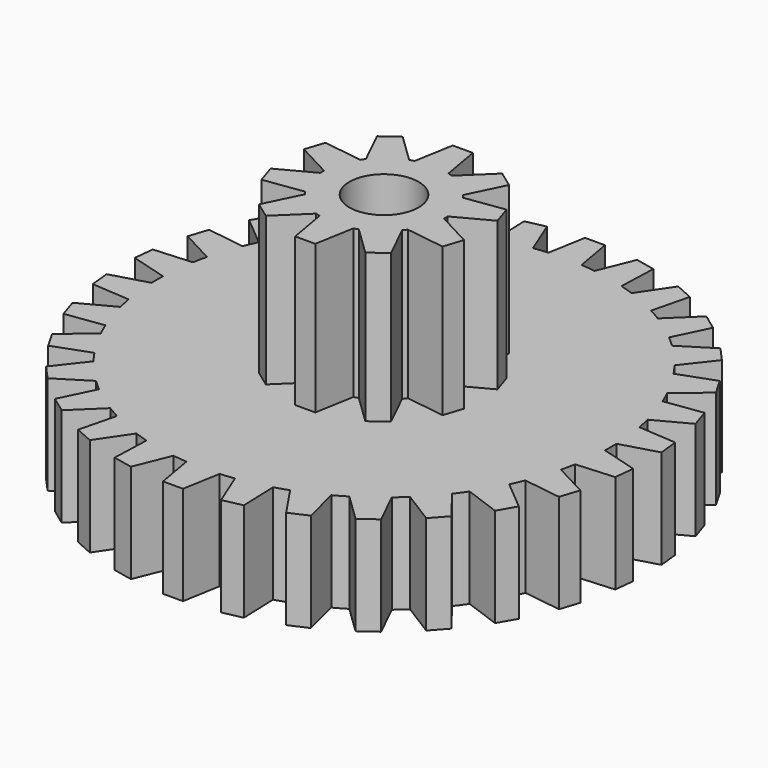
from build123d import *

# Parameters (mm, degrees)
F1_DEPTH = 3
F3_DEPTH = 4.5
F4_R     = 1.05
F5_DEPTH = 7.501


with BuildPart() as f1:
    # F0 (on Top) → F1 (new body)
    with BuildSketch(Plane.XY):
        with BuildLine():
            ThreePointArc((6.871599, -0.21621), (6.87415, -0.108118), (6.875, 0))
            ThreePointArc((6.875, 0), (6.87415, 0.108118), (6.871599, 0.21621))
            ThreePointArc((6.871599, 0.21621), (6.837338, 0.718633), (6.766391, 1.217201))
            ThreePointArc((6.766391, 1.217201), (6.724765, 1.429393), (6.676486, 1.640171))
            ThreePointArc((6.676486, 1.640171), (6.538514, 2.124492), (6.365459, 2.597414))
            ThreePointArc((6.365459, 2.597414), (6.280625, 2.796314), (6.189578, 2.992449))
            ThreePointArc((6.189578, 2.992449), (5.953925, 3.4375), (5.686326, 3.864107))
            ThreePointArc((5.686326, 3.864107), (5.561992, 4.041024), (5.432156, 4.213942))
            ThreePointArc((5.432156, 4.213942), (5.109121, 4.600273), (4.758673, 4.961921))
            ThreePointArc((4.758673, 4.961921), (4.600273, 5.109121), (4.437322, 5.251266))
            ThreePointArc((4.437322, 5.251266), (4.041024, 5.561992), (3.623043, 5.842875))
            ThreePointArc((3.623043, 5.842875), (3.4375, 5.953925), (3.248556, 6.059085))
            ThreePointArc((3.248556, 6.059085), (2.796314, 6.280625), (2.329069, 6.468467))
            ThreePointArc((2.329069, 6.468467), (2.124492, 6.538514), (1.917813, 6.602092))
            ThreePointArc((1.917813, 6.602092), (1.429393, 6.724765), (0.933303, 6.811356))
            ThreePointArc((0.933303, 6.811356), (0.718633, 6.837338), (0.503252, 6.856556))
            ThreePointArc((0.503252, 6.856556), (0, 6.875), (-0.503252, 6.856556))
            ThreePointArc((-0.503252, 6.856556), (-0.718633, 6.837338), (-0.933303, 6.811356))
            ThreePointArc((-0.933303, 6.811356), (-1.429393, 6.724765), (-1.917813, 6.602092))
            ThreePointArc((-1.917813, 6.602092), (-2.124492, 6.538514), (-2.329069, 6.468467))
            ThreePointArc((-2.329069, 6.468467), (-2.796314, 6.280625), (-3.248556, 6.059085))
            ThreePointArc((-3.248556, 6.059085), (-3.4375, 5.953925), (-3.623043, 5.842875))
            ThreePointArc((-3.623043, 5.842875), (-4.041024, 5.561992), (-4.437322, 5.251266))
            ThreePointArc((-4.437322, 5.251266), (-4.600273, 5.109121), (-4.758673, 4.961921))
            ThreePointArc((-4.758673, 4.961921), (-5.109121, 4.600273), (-5.432156, 4.213942))
            ThreePointArc((-5.432156, 4.213942), (-5.561992, 4.041024), (-5.686326, 3.864107))
            ThreePointArc((-5.686326, 3.864107), (-5.953925, 3.4375), (-6.189578, 2.992449))
            ThreePointArc((-6.189578, 2.992449), (-6.280625, 2.796314), (-6.365459, 2.597414))
            ThreePointArc((-6.365459, 2.597414), (-6.538514, 2.124492), (-6.676486, 1.640171))
            ThreePointArc((-6.676486, 1.640171), (-6.724765, 1.429393), (-6.766391, 1.217201))
            ThreePointArc((-6.766391, 1.217201), (-6.837338, 0.718633), (-6.871599, 0.21621))
            ThreePointArc((-6.871599, 0.21621), (-6.875, 0), (-6.871599, -0.21621))
            ThreePointArc((-6.871599, -0.21621), (-6.837338, -0.718633), (-6.766391, -1.217201))
            ThreePointArc((-6.766391, -1.217201), (-6.724765, -1.429393), (-6.676486, -1.640171))
            ThreePointArc((-6.676486, -1.640171), (-6.538514, -2.124492), (-6.365459, -2.597414))
            ThreePointArc((-6.365459, -2.597414), (-6.280625, -2.796314), (-6.189578, -2.992449))
            ThreePointArc((-6.189578, -2.992449), (-5.953925, -3.4375), (-5.686326, -3.864107))
            ThreePointArc((-5.686326, -3.864107), (-5.561992, -4.041024), (-5.432156, -4.213942))
            ThreePointArc((-5.432156, -4.213942), (-5.109121, -4.600273), (-4.758673, -4.961921))
            ThreePointArc((-4.758673, -4.961921), (-4.600273, -5.109121), (-4.437322, -5.251266))
            ThreePointArc((-4.437322, -5.251266), (-4.041024, -5.561992), (-3.623043, -5.842875))
            ThreePointArc((-3.623043, -5.842875), (-3.4375, -5.953925), (-3.248556, -6.059085))
            ThreePointArc((-3.248556, -6.059085), (-2.796314, -6.280625), (-2.329069, -6.468467))
            ThreePointArc((-2.329069, -6.468467), (-2.124492, -6.538514), (-1.917813, -6.602092))
            ThreePointArc((-1.917813, -6.602092), (-1.429393, -6.724765), (-0.933303, -6.811356))
            ThreePointArc((-0.933303, -6.811356), (-0.718633, -6.837338), (-0.503252, -6.856556))
            ThreePointArc((-0.503252, -6.856556), (0, -6.875), (0.503252, -6.856556))
            ThreePointArc((0.503252, -6.856556), (0.718633, -6.837338), (0.933303, -6.811356))
            ThreePointArc((0.933303, -6.811356), (1.429393, -6.724765), (1.917813, -6.602092))
            ThreePointArc((1.917813, -6.602092), (2.124492, -6.538514), (2.329069, -6.468467))
            ThreePointArc((2.329069, -6.468467), (2.796314, -6.280625), (3.248556, -6.059085))
            ThreePointArc((3.248556, -6.059085), (3.4375, -5.953925), (3.623043, -5.842875))
            ThreePointArc((3.623043, -5.842875), (4.041024, -5.561992), (4.437322, -5.251266))
            ThreePointArc((4.437322, -5.251266), (4.600273, -5.109121), (4.758673, -4.961921))
            ThreePointArc((4.758673, -4.961921), (5.109121, -4.600273), (5.432156, -4.213942))
            ThreePointArc((5.432156, -4.213942), (5.561992, -4.041024), (5.686326, -3.864107))
            ThreePointArc((5.686326, -3.864107), (5.953925, -3.4375), (6.189578, -2.992449))
            ThreePointArc((6.189578, -2.992449), (6.280625, -2.796314), (6.365459, -2.597414))
            ThreePointArc((6.365459, -2.597414), (6.538514, -2.124492), (6.676486, -1.640171))
            ThreePointArc((6.676486, -1.640171), (6.724765, -1.429393), (6.766391, -1.217201))
            ThreePointArc((6.766391, -1.217201), (6.837338, -0.718633), (6.871599, -0.21621))
        make_face()
        with BuildLine():
            ThreePointArc((6.766391, 1.217201), (6.837338, 0.718633), (6.871599, 0.21621))
            Line((6.871599, 0.21621), (7.982115, 0.534645))
            Line((7.982115, 0.534645), (7.918845, 1.136613))
            Line((7.918845, 1.136613), (6.766391, 1.217201))
        make_face()
        with BuildLine():
            Line((7.982115, -0.534645), (6.871599, -0.21621))
            ThreePointArc((6.871599, -0.21621), (6.837338, -0.718633), (6.766391, -1.217201))
            Line((6.766391, -1.217201), (7.918845, -1.136613))
            Line((7.918845, -1.136613), (7.982115, -0.534645))
        make_face()
        with BuildLine():
            ThreePointArc((6.365459, 2.597414), (6.538514, 2.124492), (6.676486, 1.640171))
            Line((6.676486, 1.640171), (7.696527, 2.182537))
            Line((7.696527, 2.182537), (7.509484, 2.758196))
            Line((7.509484, 2.758196), (6.365459, 2.597414))
        make_face()
        with BuildLine():
            Line((7.696527, -2.182537), (6.676486, -1.640171))
            ThreePointArc((6.676486, -1.640171), (6.538514, -2.124492), (6.365459, -2.597414))
            Line((6.365459, -2.597414), (7.509484, -2.758196))
            Line((7.509484, -2.758196), (7.696527, -2.182537))
        make_face()
        with BuildLine():
            ThreePointArc((5.686326, 3.864107), (5.953925, 3.4375), (6.189578, 2.992449))
            Line((6.189578, 2.992449), (7.074565, 3.735041))
            Line((7.074565, 3.735041), (6.771923, 4.259232))
            Line((6.771923, 4.259232), (5.686326, 3.864107))
        make_face()
        with BuildLine():
            Line((7.074565, -3.735041), (6.189578, -2.992449))
            ThreePointArc((6.189578, -2.992449), (5.953925, -3.4375), (5.686326, -3.864107))
            Line((5.686326, -3.864107), (6.771923, -4.259232))
            Line((6.771923, -4.259232), (7.074565, -3.735041))
        make_face()
        with BuildLine():
            ThreePointArc((4.758673, 4.961921), (5.109121, 4.600273), (5.432156, 4.213942))
            Line((5.432156, 4.213942), (6.14341, 5.124306))
            Line((6.14341, 5.124306), (5.738396, 5.57412))
            Line((5.738396, 5.57412), (4.758673, 4.961921))
        make_face()
        with BuildLine():
            Line((6.14341, -5.124306), (5.432156, -4.213942))
            ThreePointArc((5.432156, -4.213942), (5.109121, -4.600273), (4.758673, -4.961921))
            Line((4.758673, -4.961921), (5.738396, -5.57412))
            Line((5.738396, -5.57412), (6.14341, -5.124306))
        make_face()
        with BuildLine():
            ThreePointArc((3.623043, 5.842875), (4.041024, 5.561992), (4.437322, 5.251266))
            Line((4.437322, 5.251266), (4.943758, 6.289615))
            Line((4.943758, 6.289615), (4.454074, 6.645392))
            Line((4.454074, 6.645392), (3.623043, 5.842875))
        make_face()
        with BuildLine():
            Line((4.943758, -6.289615), (4.437322, -5.251266))
            ThreePointArc((4.437322, -5.251266), (4.041024, -5.561992), (3.623043, -5.842875))
            Line((3.623043, -5.842875), (4.454074, -6.645392))
            Line((4.454074, -6.645392), (4.943758, -6.289615))
        make_face()
        with BuildLine():
            ThreePointArc((2.329069, 6.468467), (2.796314, 6.280625), (3.248556, 6.059085))
            Line((3.248556, 6.059085), (3.528041, 7.180037))
            Line((3.528041, 7.180037), (2.975087, 7.426228))
            Line((2.975087, 7.426228), (2.329069, 6.468467))
        make_face()
        with BuildLine():
            Line((3.528041, -7.180037), (3.248556, -6.059085))
            ThreePointArc((3.248556, -6.059085), (2.796314, -6.280625), (2.329069, -6.468467))
            Line((2.329069, -6.468467), (2.975087, -7.426228))
            Line((2.975087, -7.426228), (3.528041, -7.180037))
        make_face()
        with BuildLine():
            ThreePointArc((0.933303, 6.811356), (1.429393, 6.724765), (1.917813, 6.602092))
            Line((1.917813, 6.602092), (1.958131, 7.756657))
            Line((1.958131, 7.756657), (1.366074, 7.882502))
            Line((1.366074, 7.882502), (0.933303, 6.811356))
        make_face()
        with BuildLine():
            Line((1.958131, -7.756657), (1.917813, -6.602092))
            ThreePointArc((1.917813, -6.602092), (1.429393, -6.724765), (0.933303, -6.811356))
            Line((0.933303, -6.811356), (1.366074, -7.882502))
            Line((1.366074, -7.882502), (1.958131, -7.756657))
        make_face()
        with BuildLine():
            ThreePointArc((-0.503252, 6.856556), (0, 6.875), (0.503252, 6.856556))
            Line((0.503252, 6.856556), (0.302642, 7.994273))
            Line((0.302642, 7.994273), (-0.302642, 7.994273))
            Line((-0.302642, 7.994273), (-0.503252, 6.856556))
        make_face()
        with BuildLine():
            Line((0.302642, -7.994273), (0.503252, -6.856556))
            ThreePointArc((0.503252, -6.856556), (0, -6.875), (-0.503252, -6.856556))
            Line((-0.503252, -6.856556), (-0.302642, -7.994273))
            Line((-0.302642, -7.994273), (0.302642, -7.994273))
        make_face()
        with BuildLine():
            ThreePointArc((-1.917813, 6.602092), (-1.429393, 6.724765), (-0.933303, 6.811356))
            Line((-0.933303, 6.811356), (-1.366074, 7.882502))
            Line((-1.366074, 7.882502), (-1.958131, 7.756657))
            Line((-1.958131, 7.756657), (-1.917813, 6.602092))
        make_face()
        with BuildLine():
            Line((-1.366074, -7.882502), (-0.933303, -6.811356))
            ThreePointArc((-0.933303, -6.811356), (-1.429393, -6.724765), (-1.917813, -6.602092))
            Line((-1.917813, -6.602092), (-1.958131, -7.756657))
            Line((-1.958131, -7.756657), (-1.366074, -7.882502))
        make_face()
        with BuildLine():
            ThreePointArc((-3.248556, 6.059085), (-2.796314, 6.280625), (-2.329069, 6.468467))
            Line((-2.329069, 6.468467), (-2.975087, 7.426228))
            Line((-2.975087, 7.426228), (-3.528041, 7.180037))
            Line((-3.528041, 7.180037), (-3.248556, 6.059085))
        make_face()
        with BuildLine():
            Line((-2.975087, -7.426228), (-2.329069, -6.468467))
            ThreePointArc((-2.329069, -6.468467), (-2.796314, -6.280625), (-3.248556, -6.059085))
            Line((-3.248556, -6.059085), (-3.528041, -7.180037))
            Line((-3.528041, -7.180037), (-2.975087, -7.426228))
        make_face()
        with BuildLine():
            ThreePointArc((-4.437322, 5.251266), (-4.041024, 5.561992), (-3.623043, 5.842875))
            Line((-3.623043, 5.842875), (-4.454074, 6.645392))
            Line((-4.454074, 6.645392), (-4.943758, 6.289615))
            Line((-4.943758, 6.289615), (-4.437322, 5.251266))
        make_face()
        with BuildLine():
            Line((-4.454074, -6.645392), (-3.623043, -5.842875))
            ThreePointArc((-3.623043, -5.842875), (-4.041024, -5.561992), (-4.437322, -5.251266))
            Line((-4.437322, -5.251266), (-4.943758, -6.289615))
            Line((-4.943758, -6.289615), (-4.454074, -6.645392))
        make_face()
        with BuildLine():
            ThreePointArc((-5.432156, 4.213942), (-5.109121, 4.600273), (-4.758673, 4.961921))
            Line((-4.758673, 4.961921), (-5.738396, 5.57412))
            Line((-5.738396, 5.57412), (-6.14341, 5.124306))
            Line((-6.14341, 5.124306), (-5.432156, 4.213942))
        make_face()
        with BuildLine():
            Line((-5.738396, -5.57412), (-4.758673, -4.961921))
            ThreePointArc((-4.758673, -4.961921), (-5.109121, -4.600273), (-5.432156, -4.213942))
            Line((-5.432156, -4.213942), (-6.14341, -5.124306))
            Line((-6.14341, -5.124306), (-5.738396, -5.57412))
        make_face()
        with BuildLine():
            ThreePointArc((-6.189578, 2.992449), (-5.953925, 3.4375), (-5.686326, 3.864107))
            Line((-5.686326, 3.864107), (-6.771923, 4.259232))
            Line((-6.771923, 4.259232), (-7.074565, 3.735041))
            Line((-7.074565, 3.735041), (-6.189578, 2.992449))
        make_face()
        with BuildLine():
            Line((-6.771923, -4.259232), (-5.686326, -3.864107))
            ThreePointArc((-5.686326, -3.864107), (-5.953925, -3.4375), (-6.189578, -2.992449))
            Line((-6.189578, -2.992449), (-7.074565, -3.735041))
            Line((-7.074565, -3.735041), (-6.771923, -4.259232))
        make_face()
        with BuildLine():
            ThreePointArc((-6.676486, 1.640171), (-6.538514, 2.124492), (-6.365459, 2.597414))
            Line((-6.365459, 2.597414), (-7.509484, 2.758196))
            Line((-7.509484, 2.758196), (-7.696527, 2.182537))
            Line((-7.696527, 2.182537), (-6.676486, 1.640171))
        make_face()
        with BuildLine():
            Line((-7.509484, -2.758196), (-6.365459, -2.597414))
            ThreePointArc((-6.365459, -2.597414), (-6.538514, -2.124492), (-6.676486, -1.640171))
            Line((-6.676486, -1.640171), (-7.696527, -2.182537))
            Line((-7.696527, -2.182537), (-7.509484, -2.758196))
        make_face()
        with BuildLine():
            ThreePointArc((-6.871599, 0.21621), (-6.837338, 0.718633), (-6.766391, 1.217201))
            Line((-6.766391, 1.217201), (-7.918845, 1.136613))
            Line((-7.918845, 1.136613), (-7.982115, 0.534645))
            Line((-7.982115, 0.534645), (-6.871599, 0.21621))
        make_face()
        with BuildLine():
            Line((-7.918845, -1.136613), (-6.766391, -1.217201))
            ThreePointArc((-6.766391, -1.217201), (-6.837338, -0.718633), (-6.871599, -0.21621))
            Line((-6.871599, -0.21621), (-7.982115, -0.534645))
            Line((-7.982115, -0.534645), (-7.918845, -1.136613))
        make_face()
    extrude(amount=F1_DEPTH)

    # F2 (on face) → F3 (join)
    with BuildSketch(Plane.XY.offset(3)):
        with BuildLine():
            ThreePointArc((1.873699, -0.069828), (1.874675, -0.03492), (1.875, 0))
            ThreePointArc((1.875, 0), (1.874675, 0.03492), (1.873699, 0.069828))
            ThreePointArc((1.873699, 0.069828), (1.783231, 0.579407), (1.556898, 1.044841))
            ThreePointArc((1.556898, 1.044841), (1.516907, 1.102097), (1.474811, 1.157825))
            ThreePointArc((1.474811, 1.157825), (1.102097, 1.516907), (0.645415, 1.760416))
            ThreePointArc((0.645415, 1.760416), (0.579407, 1.783231), (0.512595, 1.803572))
            ThreePointArc((0.512595, 1.803572), (0, 1.875), (-0.512595, 1.803572))
            ThreePointArc((-0.512595, 1.803572), (-0.579407, 1.783231), (-0.645415, 1.760416))
            ThreePointArc((-0.645415, 1.760416), (-1.102097, 1.516907), (-1.474811, 1.157825))
            ThreePointArc((-1.474811, 1.157825), (-1.516907, 1.102097), (-1.556898, 1.044841))
            ThreePointArc((-1.556898, 1.044841), (-1.783231, 0.579407), (-1.873699, 0.069828))
            ThreePointArc((-1.873699, 0.069828), (-1.875, 0), (-1.873699, -0.069828))
            ThreePointArc((-1.873699, -0.069828), (-1.783231, -0.579407), (-1.556898, -1.044841))
            ThreePointArc((-1.556898, -1.044841), (-1.516907, -1.102097), (-1.474811, -1.157825))
            ThreePointArc((-1.474811, -1.157825), (-1.102097, -1.516907), (-0.645415, -1.760416))
            ThreePointArc((-0.645415, -1.760416), (-0.579407, -1.783231), (-0.512595, -1.803572))
            ThreePointArc((-0.512595, -1.803572), (0, -1.875), (0.512595, -1.803572))
            ThreePointArc((0.512595, -1.803572), (0.579407, -1.783231), (0.645415, -1.760416))
            ThreePointArc((0.645415, -1.760416), (1.102097, -1.516907), (1.474811, -1.157825))
            ThreePointArc((1.474811, -1.157825), (1.516907, -1.102097), (1.556898, -1.044841))
            ThreePointArc((1.556898, -1.044841), (1.783231, -0.579407), (1.873699, -0.069828))
        make_face()
        with BuildLine():
            ThreePointArc((1.556898, 1.044841), (1.783231, 0.579407), (1.873699, 0.069828))
            Line((1.873699, 0.069828), (2.932501, 0.632803))
            Line((2.932501, 0.632803), (2.744395, 1.211733))
            Line((2.744395, 1.211733), (1.556898, 1.044841))
        make_face()
        with BuildLine():
            Line((2.932501, -0.632803), (1.873699, -0.069828))
            ThreePointArc((1.873699, -0.069828), (1.783231, -0.579407), (1.556898, -1.044841))
            Line((1.556898, -1.044841), (2.744395, -1.211733))
            Line((2.744395, -1.211733), (2.932501, -0.632803))
        make_face()
        with BuildLine():
            ThreePointArc((0.645415, 1.760416), (1.102097, 1.516907), (1.474811, 1.157825))
            Line((1.474811, 1.157825), (2.000491, 2.235629))
            Line((2.000491, 2.235629), (1.508024, 2.593427))
            Line((1.508024, 2.593427), (0.645415, 1.760416))
        make_face()
        with BuildLine():
            Line((2.000491, -2.235629), (1.474811, -1.157825))
            ThreePointArc((1.474811, -1.157825), (1.102097, -1.516907), (0.645415, -1.760416))
            Line((0.645415, -1.760416), (1.508024, -2.593427))
            Line((1.508024, -2.593427), (2.000491, -2.235629))
        make_face()
        with BuildLine():
            ThreePointArc((-0.512595, 1.803572), (0, 1.875), (0.512595, 1.803572))
            Line((0.512595, 1.803572), (0.304362, 2.984521))
            Line((0.304362, 2.984521), (-0.304362, 2.984521))
            Line((-0.304362, 2.984521), (-0.512595, 1.803572))
        make_face()
        with BuildLine():
            Line((0.304362, -2.984521), (0.512595, -1.803572))
            ThreePointArc((0.512595, -1.803572), (0, -1.875), (-0.512595, -1.803572))
            Line((-0.512595, -1.803572), (-0.304362, -2.984521))
            Line((-0.304362, -2.984521), (0.304362, -2.984521))
        make_face()
        with BuildLine():
            ThreePointArc((-1.474811, 1.157825), (-1.102097, 1.516907), (-0.645415, 1.760416))
            Line((-0.645415, 1.760416), (-1.508024, 2.593427))
            Line((-1.508024, 2.593427), (-2.000491, 2.235629))
            Line((-2.000491, 2.235629), (-1.474811, 1.157825))
        make_face()
        with BuildLine():
            Line((-1.508024, -2.593427), (-0.645415, -1.760416))
            ThreePointArc((-0.645415, -1.760416), (-1.102097, -1.516907), (-1.474811, -1.157825))
            Line((-1.474811, -1.157825), (-2.000491, -2.235629))
            Line((-2.000491, -2.235629), (-1.508024, -2.593427))
        make_face()
        with BuildLine():
            ThreePointArc((-1.873699, 0.069828), (-1.783231, 0.579407), (-1.556898, 1.044841))
            Line((-1.556898, 1.044841), (-2.744395, 1.211733))
            Line((-2.744395, 1.211733), (-2.932501, 0.632803))
            Line((-2.932501, 0.632803), (-1.873699, 0.069828))
        make_face()
        with BuildLine():
            Line((-2.744395, -1.211733), (-1.556898, -1.044841))
            ThreePointArc((-1.556898, -1.044841), (-1.783231, -0.579407), (-1.873699, -0.069828))
            Line((-1.873699, -0.069828), (-2.932501, -0.632803))
            Line((-2.932501, -0.632803), (-2.744395, -1.211733))
        make_face()
    extrude(amount=F3_DEPTH)

    # F4 (on face) → F5 (cut, through all)
    with BuildSketch(Plane.XY.offset(7.5)):
        Circle(F4_R)
    extrude(amount=-F5_DEPTH, mode=Mode.SUBTRACT)


solid = f1.part
